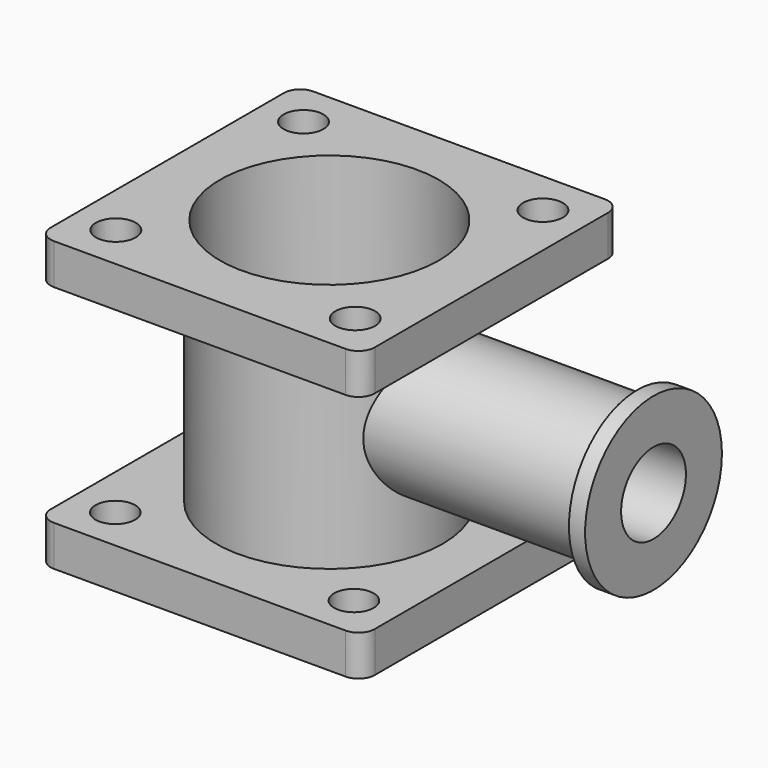
from build123d import *

# Parameters (mm, degrees)
F0_W      = 101.6
F0_H      = 101.6
F1_DEPTH  = 12.7
F2_R      = 35.56
F3_DEPTH  = 65.024
F4_W      = 101.6
F4_H      = 101.6
F4_R      = 35.56
F5_DEPTH  = 12.7
F6_R      = 5.08
F7_R      = 21.814847108
F8_DEPTH  = 101.6
F9_R      = 26.7992092516
F10_DEPTH = 5.08
F11_D     = 25.4
F11_DEPTH = 127
F11_TIP   = 7.6309298617
F12_R     = 34.29
F13_DEPTH = 91.44
F14_R     = 6.2386640532
F15_DEPTH = 12.7
F16_R     = 6.2024396885
F17_DEPTH = 12.7


with BuildPart() as f1:
    # F0 (on Top) → F1 (new body)
    with BuildSketch(Plane.XY):
        Rectangle(F0_W, F0_H)
    extrude(amount=F1_DEPTH)

    # F2 (on face) → F3 (join)
    with BuildSketch(Plane(origin=(0, 0, 0), x_dir=(1, 0, 0), z_dir=(0, 0, -1))):
        Circle(F2_R)
    extrude(amount=F3_DEPTH)

    # F4 (on face) → F5 (join)
    with BuildSketch(Plane(origin=(0, 0, -65.024), x_dir=(1, 0, 0), z_dir=(0, 0, -1))):
        Rectangle(F4_W, F4_H)
        Circle(F4_R, mode=Mode.SUBTRACT)
        Circle(F4_R)
    extrude(amount=F5_DEPTH)

    # F6
    f6_edges = [f1.edges().sort_by_distance(p)[0] for p in [
        (50.8, -50.8, 6.35),
        (-50.8, -50.8, 6.35),
        (50.8, 50.8, 6.35),
        (-50.8, 50.8, 6.35),
        (-50.8, 50.8, -71.374),
        (50.8, 50.8, -71.374),
        (50.8, -50.8, -71.374),
        (-50.8, -50.8, -71.374),
    ]]
    fillet(f6_edges, radius=F6_R)

    # F7 (on Right) → F8 (join)
    with BuildSketch(Plane.YZ):
        with Locations((0, -29.541451484)):
            Circle(F7_R)
    extrude(amount=F8_DEPTH)

    # F9 (on face) → F10 (join)
    with BuildSketch(Plane.YZ.offset(101.6)):
        with Locations((0, -29.541451484)):
            Circle(F9_R)
    extrude(amount=-F10_DEPTH)

    # F11
    with Locations(Plane.YZ.offset(101.6)):
        with Locations((0, -29.541451484)):
            Hole(F11_D / 2, depth=F11_DEPTH)
            with Locations((0, 0, -(F11_DEPTH + F11_TIP / 2))):  # 118° drill point
                Cone(0, F11_D / 2, F11_TIP, mode=Mode.SUBTRACT)

    # F12 (on face) → F13 (cut)
    with BuildSketch(Plane(origin=(0, 0, -77.724), x_dir=(1, 0, 0), z_dir=(0, 0, -1))):
        Circle(F12_R)
    extrude(amount=-F13_DEPTH, mode=Mode.SUBTRACT)

    # F14 (on face) → F15 (cut)
    with BuildSketch(Plane.XY.offset(12.7)):
        with Locations((-37.5177375972, 36.7685481906)):
            Circle(F14_R)
        with Locations((-37.5177375972, -36.7685481906)):
            Circle(F14_R)
        with Locations((37.5177375972, 36.7685481906)):
            Circle(F14_R)
        with Locations((37.5177375972, -36.7685481906)):
            Circle(F14_R)
    extrude(amount=-F15_DEPTH, mode=Mode.SUBTRACT)

    # F16 (on face) → F17 (cut)
    with BuildSketch(Plane(origin=(0, 0, -77.724), x_dir=(1, 0, 0), z_dir=(0, 0, -1))):
        with Locations((-37.392988801, 37.1180400252)):
            Circle(F16_R)
        with Locations((37.392988801, 37.1180400252)):
            Circle(F16_R)
        with Locations((-37.392988801, -37.1180400252)):
            Circle(F16_R)
        with Locations((37.392988801, -37.1180400252)):
            Circle(F16_R)
    extrude(amount=-F17_DEPTH, mode=Mode.SUBTRACT)


solid = f1.part
